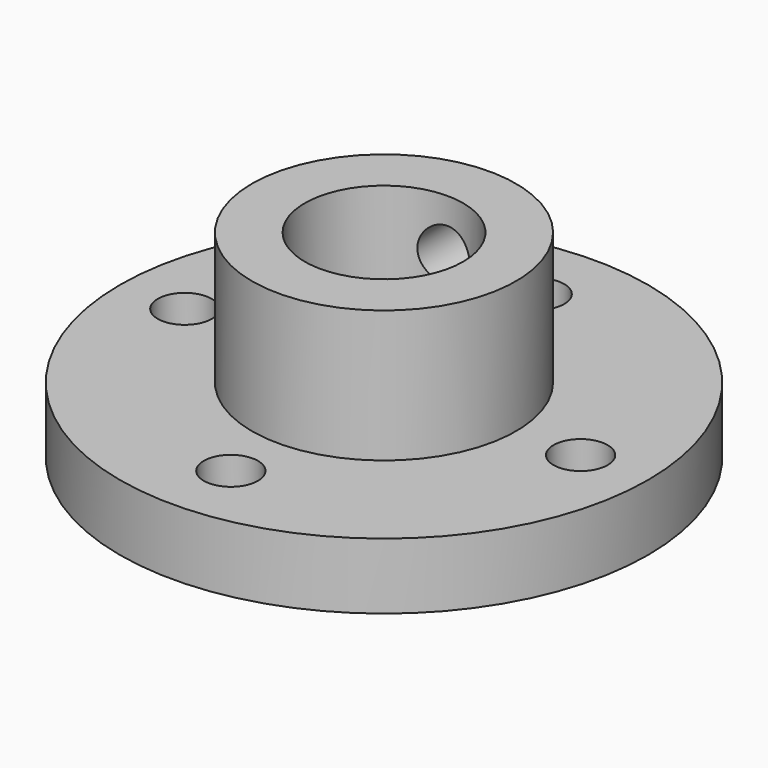
from build123d import *

# Parameters (mm, degrees)
F2_R     = 6
F3_DEPTH = 45
F4_R     = 2.05
F5_DEPTH = 25
F6_R     = 2
F7_DEPTH = 10


with BuildPart() as f1:
    # F0 (on Front) → F1 (revolve)
    with BuildSketch(Plane.XZ):
        Polygon((0, -15), (0, 0), (-10, 0), (-10, -10), (-20, -10), (-20, -15), align=None)
    revolve(axis=Axis((0, 0, -7.5), (0, 0, -1)))

    # F2 (on face) → F3 (cut)
    with BuildSketch(Plane.XY):
        Circle(F2_R)
    extrude(amount=-F3_DEPTH, mode=Mode.SUBTRACT)

    # F4 (on Top) → F5 (cut)
    with BuildSketch(Plane.XY):
        with Locations((0, 14.49627)):
            Circle(F4_R)
        with Locations((0, -14.49627)):
            Circle(F4_R)
        with Locations((14.88806, 0)):
            Circle(F4_R)
        with Locations((-15.083956, 0)):
            Circle(F4_R)
    extrude(amount=-F5_DEPTH, mode=Mode.SUBTRACT)

    # F6 (on Front) → F7 (cut)
    with BuildSketch(Plane.XZ):
        with Locations((0, -4)):
            Circle(F6_R)
    extrude(amount=-F7_DEPTH, mode=Mode.SUBTRACT)


solid = f1.part
